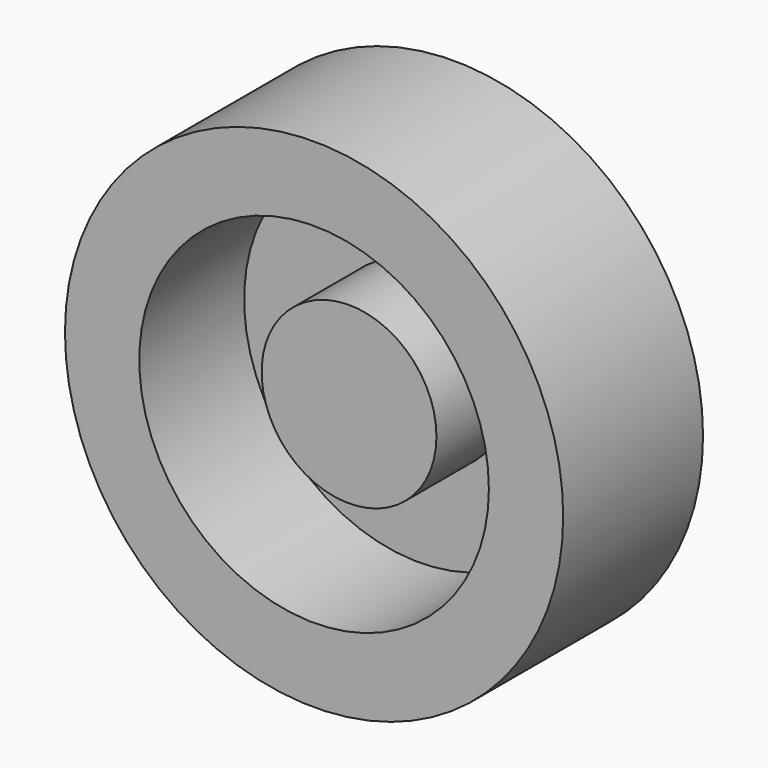
from build123d import *

# Parameters (mm, degrees)
F0_R     = 142.5
F1_DEPTH = 100
F2_R     = 100
F3_DEPTH = 75
F4_R     = 50
F5_DEPTH = 50


with BuildPart() as f1:
    # F0 (on Front) → F1 (new body)
    with BuildSketch(Plane.XZ):
        Circle(F0_R)
    extrude(amount=F1_DEPTH)

    # F2 (on face) → F3 (cut)
    with BuildSketch(Plane.XZ.offset(100)):
        Circle(F2_R)
    extrude(amount=-F3_DEPTH, mode=Mode.SUBTRACT)

    # F4 (on face) → F5 (join)
    with BuildSketch(Plane.XZ.offset(25)):
        Circle(F4_R)
    extrude(amount=F5_DEPTH)


solid = f1.part
